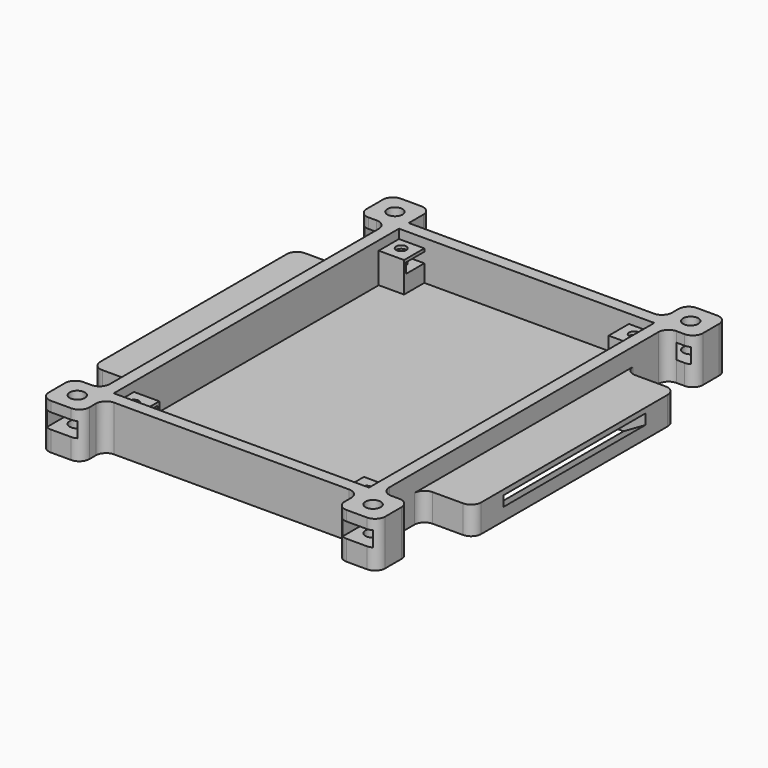
from build123d import *

# Parameters (mm, degrees)
SKETCH_W        = 55.2
SKETCH_H        = 75.2
PAD_DEPTH       = 1.2
SKETCH001_W     = 55.2
SKETCH001_H     = 75.2
SKETCH001_R     = 1
PAD001_DEPTH    = 6
SKETCH002_W     = 55.2
SKETCH002_H     = 75.2
SKETCH002_W_2   = 50.4
SKETCH002_H_2   = 70.4
PAD002_DEPTH    = 1.8
SKETCH003_W     = 8
SKETCH003_H     = 8
PAD003_DEPTH    = 9
FILLET_R        = 2
SKETCH004_W     = 4.5
SKETCH004_H     = 2
POCKET_DEPTH    = 5
SKETCH006_R     = 1.5
POCKET001_DEPTH = 9.001
SKETCH007_W     = 6
SKETCH007_H     = 3
POCKET002_DEPTH = 8
SKETCH008_W     = 50
SKETCH008_H     = 5.5
PAD004_DEPTH    = 10
POCKET003_DEPTH = 17.5
FILLET001_R     = 2
SKETCH010_W     = 50
SKETCH010_H     = 5.5
PAD005_DEPTH    = 10
POCKET004_DEPTH = 17.5
FILLET002_R     = 2


with BuildPart() as part:
    # Sketch → Pad (new body)
    with BuildSketch(Plane.XY):
        Rectangle(SKETCH_W, SKETCH_H)
    extrude(amount=PAD_DEPTH)

    # Sketch001 (on Face6 of Pad) → Pad001 (join)
    with BuildSketch(Plane.XY.offset(1.2)):
        Rectangle(SKETCH001_W, SKETCH001_H)
        with Locations((-23, 33)):
            Circle(SKETCH001_R, mode=Mode.SUBTRACT)
        with Locations((23, 33)):
            Circle(SKETCH001_R, mode=Mode.SUBTRACT)
        with Locations((23, -33)):
            Circle(SKETCH001_R, mode=Mode.SUBTRACT)
        with Locations((-23, -33)):
            Circle(SKETCH001_R, mode=Mode.SUBTRACT)
        Polygon((-25.2, -30.2), (-25.2, 30.2), (-20.2, 30.2), (-20.2, 35.2), (20.2, 35.2), (20.2, 30.2), (25.2, 30.2), (25.2, -30.2), (20.2, -30.2), (20.2, -35.2), (-20.2, -35.2), (-20.2, -30.2), align=None, mode=Mode.SUBTRACT)
    extrude(amount=PAD001_DEPTH)

    # Sketch002 (on Face9 of Pad001) → Pad002 (join)
    with BuildSketch(Plane.XY.offset(7.2)):
        Rectangle(SKETCH002_W, SKETCH002_H)
        Rectangle(SKETCH002_W_2, SKETCH002_H_2, mode=Mode.SUBTRACT)
    extrude(amount=PAD002_DEPTH)

    # Sketch003 (on Face13 of Pad002) → Pad003 (join)
    with BuildSketch(Plane.XY.offset(9)):
        with Locations((29.2, -39.2)):
            Rectangle(SKETCH003_W, SKETCH003_H)
        with Locations((-29.2, -39.2)):
            Rectangle(SKETCH003_W, SKETCH003_H)
        with Locations((-29.2, 39.2)):
            Rectangle(SKETCH003_W, SKETCH003_H)
        with Locations((29.2, 39.2)):
            Rectangle(SKETCH003_W, SKETCH003_H)
    extrude(amount=-PAD003_DEPTH)

    # Fillet
    fillet_edges = [part.edges().sort_by_distance(p)[0] for p in [
        (25.2, -37.6, 4.2),
        (25.2, -37.6, 8.1),
        (25.2, -37.6, 0.6),
        (-33.2, 43.2, 4.5),
        (-25.2, 43.2, 4.5),
        (-33.2, 35.2, 4.5),
        (25.2, 37.6, 8.1),
        (25.2, 37.6, 4.2),
        (25.2, 37.6, 0.6),
        (25.2, 43.2, 4.5),
        (33.2, 43.2, 4.5),
        (33.2, 35.2, 4.5),
        (27.6, 35.2, 8.1),
        (27.6, 35.2, 4.2),
        (33.2, -35.2, 4.5),
        (27.6, -35.2, 4.2),
        (27.6, -35.2, 8.1),
        (27.6, -35.2, 0.6),
        (33.2, -43.2, 4.5),
        (25.2, -43.2, 4.5),
        (-25.2, -37.6, 8.1),
        (-25.2, -37.6, 4.2),
        (-25.2, -37.6, 0.6),
        (-25.2, -43.2, 4.5),
        (-33.2, -43.2, 4.5),
        (-33.2, -35.2, 4.5),
        (-27.6, -35.2, 4.2),
        (-27.6, -35.2, 8.1),
        (-27.6, -35.2, 0.6),
        (-27.6, 35.2, 8.1),
        (-27.6, 35.2, 4.2),
        (-27.6, 35.2, 0.6),
    ]]
    fillet(fillet_edges, radius=FILLET_R)

    # Sketch004 (on Face94 of Fillet) → Pocket (cut)
    with BuildSketch(Plane.YZ.offset(-20.2)):
        with Locations((32.95, 5.6)):
            Rectangle(SKETCH004_W, SKETCH004_H)
        with Locations((-32.95, 5.6)):
            Rectangle(SKETCH004_W, SKETCH004_H)
    pocket = extrude(amount=-POCKET_DEPTH, mode=Mode.SUBTRACT)

    # Mirrored: Pocket across YZ
    add(pocket.mirror(Plane.YZ), mode=Mode.SUBTRACT)

    # Sketch006 (on Face66 of Mirrored) → Pocket001 (cut, through all)
    with BuildSketch(Plane.XY.offset(9)):
        with Locations((-29.2, 39.2)):
            Circle(SKETCH006_R)
        with Locations((29.2, 39.2)):
            Circle(SKETCH006_R)
        with Locations((29.2, -39.2)):
            Circle(SKETCH006_R)
        with Locations((-29.2, -39.2)):
            Circle(SKETCH006_R)
    extrude(amount=-POCKET001_DEPTH, mode=Mode.SUBTRACT)

    # Sketch007 (on Face55 of Pocket001) → Pocket002 (cut)
    with BuildSketch(Plane.XZ.offset(43.2)):
        with Locations((-29.2, 5.5)):
            Rectangle(SKETCH007_W, SKETCH007_H)
        with Locations((29.2, 5.5)):
            Rectangle(SKETCH007_W, SKETCH007_H)
    pocket002 = extrude(amount=-POCKET002_DEPTH, mode=Mode.SUBTRACT)

    # Mirrored001: Pocket002 across XZ
    add(pocket002.mirror(Plane.XZ), mode=Mode.SUBTRACT)

    # Sketch008 (on Face45 of Mirrored001) → Pad004 (join)
    with BuildSketch(Plane(origin=(-27.6, 0, 0), x_dir=(0, -1, 0), z_dir=(-1, 0, 0))):
        with Locations((0, 2.75)):
            Rectangle(SKETCH008_W, SKETCH008_H)
    extrude(amount=PAD004_DEPTH)

    # Sketch009 → Pocket003 (cut, symmetric)
    with BuildSketch(Plane.XZ):
        Polygon((-37.6, 2.479274), (-33.305771, 0), (-29.805771, 0), (-37.6, 4.5), align=None)
    extrude(amount=POCKET003_DEPTH, both=True, mode=Mode.SUBTRACT)

    # Fillet001
    fillet001_edges = [part.edges().sort_by_distance(p)[0] for p in [
        (-27.6, 25, 3.35),
        (-27.6, 25, 0.6),
        (-27.6, -25, 3.35),
        (-27.6, -25, 0.6),
        (-37.6, -25, 2.75),
        (-37.6, 25, 2.75),
    ]]
    fillet(fillet001_edges, radius=FILLET001_R)

    # Sketch010 (on Face66 of Fillet001) → Pad005 (join)
    with BuildSketch(Plane.YZ.offset(27.6)):
        with Locations((0, 2.75)):
            Rectangle(SKETCH010_W, SKETCH010_H)
    extrude(amount=PAD005_DEPTH)

    # Sketch011 → Pocket004 (cut, symmetric)
    with BuildSketch(Plane.XZ):
        Polygon((37.6, 4.5), (29.805771, 0), (33.305771, 0), (37.6, 2.479274), align=None)
    extrude(amount=POCKET004_DEPTH, both=True, mode=Mode.SUBTRACT)

    # Fillet002
    fillet002_edges = [part.edges().sort_by_distance(p)[0] for p in [
        (37.6, 25, 2.75),
        (27.6, 25, 3.35),
        (27.6, 25, 0.6),
        (27.6, -25, 3.35),
        (27.6, -25, 0.6),
        (37.6, -25, 2.75),
    ]]
    fillet(fillet002_edges, radius=FILLET002_R)


solid = part.part
